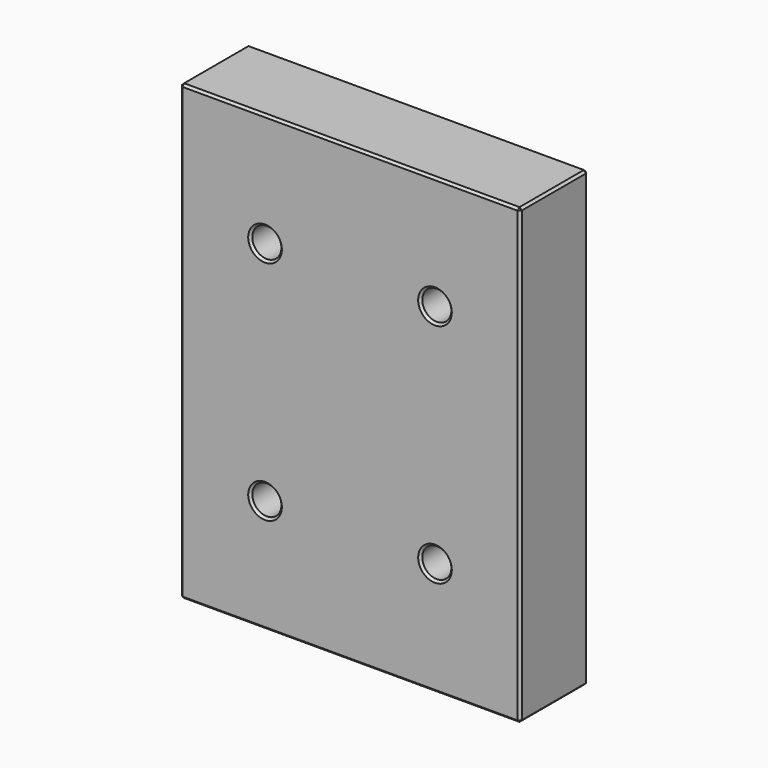
from build123d import *

# Parameters (mm, degrees)
F0_W     = 76.2
F0_H     = 101.6
F0_R     = 3.2639
F1_DEPTH = 19.05
F2_R     = 2.5527
F3_DEPTH = 19.05
F4_SIZE  = 0.508


with BuildPart() as f1:
    # F0 (on Front) → F1 (new body)
    with BuildSketch(Plane.XZ):
        Rectangle(F0_W, F0_H)
        with Locations((-19.05, -25.4)):
            Circle(F0_R, mode=Mode.SUBTRACT)
        with Locations((19.05, -25.4)):
            Circle(F0_R, mode=Mode.SUBTRACT)
        with Locations((-19.05, 25.4)):
            Circle(F0_R, mode=Mode.SUBTRACT)
        with Locations((19.05, 25.4)):
            Circle(F0_R, mode=Mode.SUBTRACT)
    extrude(amount=F1_DEPTH)

    # F2 (on face) → F3 (cut)
    with BuildSketch(Plane(origin=(0, 0, -50.8), x_dir=(1, 0, 0), z_dir=(0, 0, -1))):
        with Locations((-19.05, 9.525)):
            Circle(F2_R)
        with Locations((19.05, 9.525)):
            Circle(F2_R)
    extrude(amount=-F3_DEPTH, mode=Mode.SUBTRACT)

    # F4
    f4_edges = [f1.edges().sort_by_distance(p)[0] for p in [
        (38.1, -19.05, 0),
        (0, -19.05, 50.8),
        (-38.1, -19.05, 0),
        (0, -19.05, -50.8),
        (-22.3139, -19.05, -25.4),
        (15.7861, -19.05, -25.4),
        (-22.3139, -19.05, 25.4),
        (15.7861, -19.05, 25.4),
        (-38.1, -9.525, 50.8),
        (-38.1, -9.525, -50.8),
        (-38.1, 0, 0),
        (0, 0, -50.8),
        (38.1, -9.525, -50.8),
        (-21.6027, -9.525, -50.8),
        (16.4973, -9.525, -50.8),
        (38.1, 0, 0),
        (0, 0, 50.8),
        (-22.3139, 0, -25.4),
        (15.7861, 0, -25.4),
        (-22.3139, 0, 25.4),
        (15.7861, 0, 25.4),
        (38.1, -9.525, 50.8),
    ]]
    chamfer(f4_edges, length=F4_SIZE)


solid = f1.part
